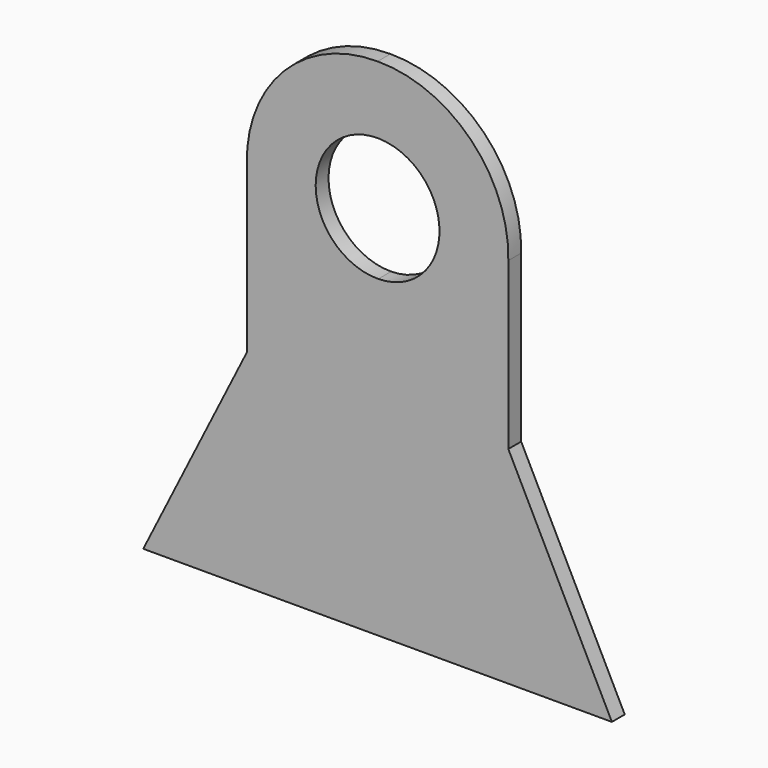
from build123d import *

# Parameters (mm, degrees)
F1_DEPTH = 2.54


with BuildPart() as f1:
    # F0 (on Front) → F1 (new body)
    with BuildSketch(Plane.XZ):
        with BuildLine():
            Line((20.668315, 0), (20.668315, 26.228523))
            ThreePointArc((20.668315, 26.228523), (0.17472, 47.222494), (-20.410517, 26.318373))
            ThreePointArc((-20.410517, 26.318373), (-20.409678, 26.273447), (-20.408742, 26.228523))
            Line((-20.408742, 26.228523), (-19.833371, 0))
            Line((-19.833371, 0), (-36.207609, -32.658167))
            Line((-36.207609, -32.658167), (37.04169, -32.658167))
            Line((37.04169, -32.658167), (20.668315, 0))
        make_face()
        with BuildLine():
            ThreePointArc((0.108574, 16.981143), (-9.785373, 26.78734), (0.151377, 36.550163))
            ThreePointArc((0.151377, 36.550163), (7.140778, 33.72297), (10.045348, 26.765368))
            ThreePointArc((10.045348, 26.765368), (7.125543, 19.792734), (0.108574, 16.981143))
        make_face(mode=Mode.SUBTRACT)
    extrude(amount=F1_DEPTH)

    # F2: F1 across plane


with BuildPart() as f1_1:
    add(f1.part)
    add(f1.part.mirror(Plane.YZ))


solid = f1_1.part
